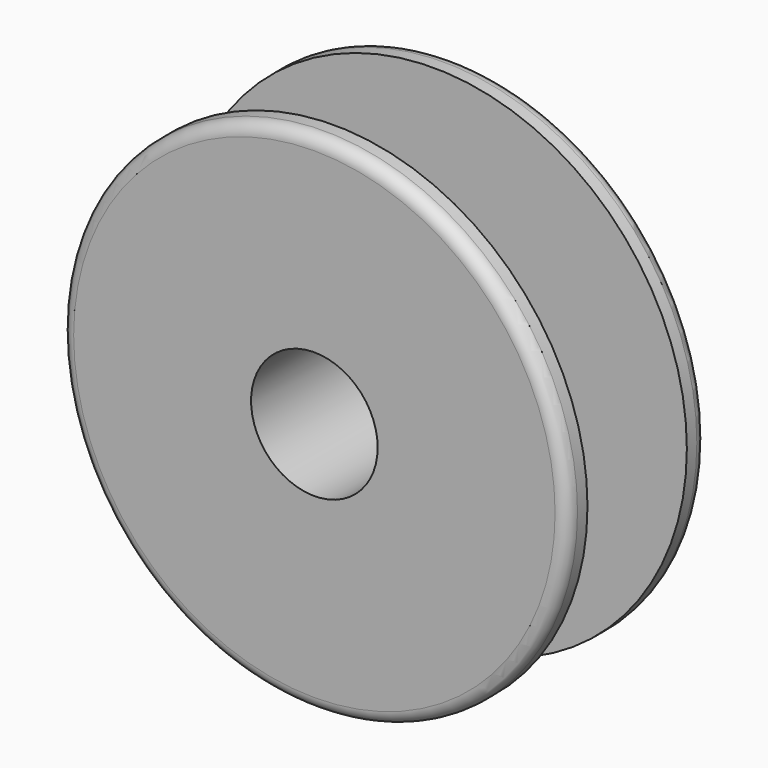
from build123d import *

# Parameters (mm, degrees)
F2_R = 5


with BuildPart() as f1:
    # F0 (on Top) → F1 (revolve)
    with BuildSketch(Plane.XY):
        Polygon((25.4, -14.925), (25.4, -24.925), (35.4, -24.925), (35.4, -14.925), (35.4, 14.925), (35.4, 24.925), (25.4, 24.925), (25.4, 14.925), align=None)
        with BuildLine():
            Line((45.4, 24.925), (35.4, 24.925))
            Line((35.4, 24.925), (35.4, 14.925))
            ThreePointArc((35.4, 14.925), (38.328932, 21.996068), (45.4, 24.925))
        make_face()
        Polygon((101.6, 34.925), (25.4, 34.925), (25.4, 24.925), (35.4, 24.925), (45.4, 24.925), (101.6, 24.925), align=None)
        Polygon((25.4, -24.925), (25.4, -34.925), (101.6, -34.925), (101.6, -24.925), (45.4, -24.925), (35.4, -24.925), align=None)
        with BuildLine():
            Line((35.4, -14.925), (35.4, -24.925))
            Line((35.4, -24.925), (45.4, -24.925))
            ThreePointArc((45.4, -24.925), (38.328932, -21.996068), (35.4, -14.925))
        make_face()
    revolve(axis=Axis((0, 17.4625, 0), (0, 1, 0)))

    # F2
    f2_edges = [f1.edges().sort_by_distance(p)[0] for p in [
        (-101.6, 34.925, 0),
        (-101.6, -34.925, 0),
    ]]
    fillet(f2_edges, radius=F2_R)


solid = f1.part
